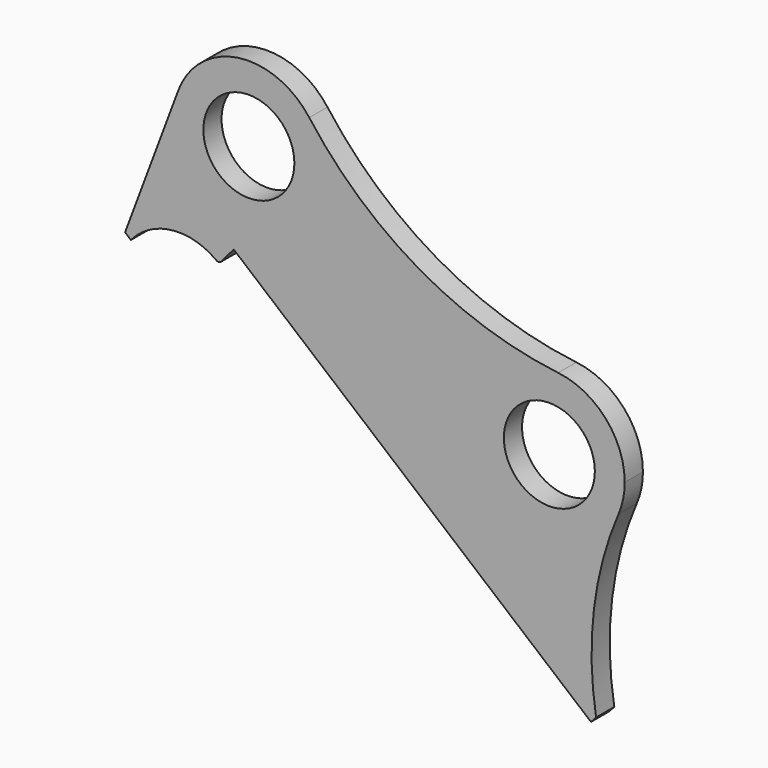
from build123d import *

# Parameters (mm, degrees)
F1_R     = 38.1
F2_DEPTH = 19.05


with BuildPart() as f2:
    # F1 (on Front) → F2 (new body)
    with BuildSketch(Plane.XZ):
        with BuildLine():
            ThreePointArc((-59.101749, 22.104146), (-11.231421, -62.092392), (63.1, 0))
            ThreePointArc((63.1, 0), (59.883643, 19.888671), (50.562465, 37.749797))
            ThreePointArc((50.562465, 37.749797), (-8.912151, 62.46746), (-59.101749, 22.104146))
        make_face()
        Circle(F1_R, mode=Mode.SUBTRACT)
        with BuildLine():
            ThreePointArc((50.562465, 37.749797), (59.883643, 19.888671), (63.1, 0))
            ThreePointArc((63.1, 0), (-11.231421, -62.092392), (-59.101749, 22.104146))
            Line((-59.101749, 22.104146), (-103.631373, -96.958523))
            Line((-103.631373, -96.958523), (-98.76699, -101.040224))
            ThreePointArc((-98.76699, -101.040224), (-64.691543, -82.67794), (-27.310033, -92.72445))
            ThreePointArc((-27.310033, -92.72445), (-25.044487, -93.333329), (-22.979308, -92.220464))
            Line((-22.979308, -92.220464), (-12.716697, -79.98996))
            Line((-12.716697, -79.98996), (286.442809, -331.014591))
            Line((286.442809, -331.014591), (290.740471, -326.339915))
            ThreePointArc((290.740471, -326.339915), (288.937178, -246.888288), (309.576211, -170.142975))
            ThreePointArc((309.576211, -170.142975), (196.952283, -176.818858), (259.002256, -82.592973))
            ThreePointArc((259.002256, -82.592973), (142.400804, -43.867073), (50.562465, 37.749797))
        make_face()
        with BuildLine():
            ThreePointArc((314.691205, -145.25625), (298.757121, -103.339829), (259.002256, -82.592973))
            ThreePointArc((259.002256, -82.592973), (196.952283, -176.818858), (309.576211, -170.142975))
            ThreePointArc((309.576211, -170.142975), (313.39923, -157.959716), (314.691205, -145.25625))
        make_face()
        with Locations((251.591205, -145.25625)):
            Circle(F1_R, mode=Mode.SUBTRACT)
    extrude(amount=F2_DEPTH)


solid = f2.part
